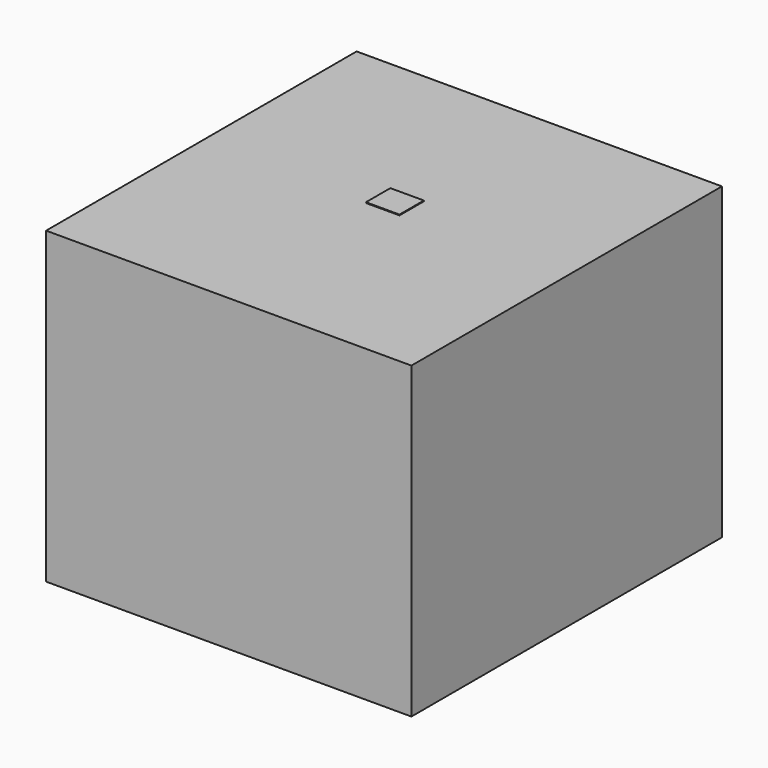
from build123d import *

# Parameters (mm, degrees)
F0_W     = 2400
F0_H     = 2550
F2_DEPTH = 2030
F1_W     = 220
F1_H     = 200
F3_DEPTH = 5


with BuildPart() as f2:
    # F0 (on Top) → F2 (new body)
    with BuildSketch(Plane.XY):
        Rectangle(F0_W, F0_H)
    extrude(amount=F2_DEPTH)


with BuildPart() as f3:
    # F1 (on face) → F3 (new body)
    with BuildSketch(Plane.XY.offset(2030)):
        with Locations((0, 89.589905)):
            Rectangle(F1_W, F1_H)
    extrude(amount=F3_DEPTH)


solid = Compound([f2.part, f3.part])
